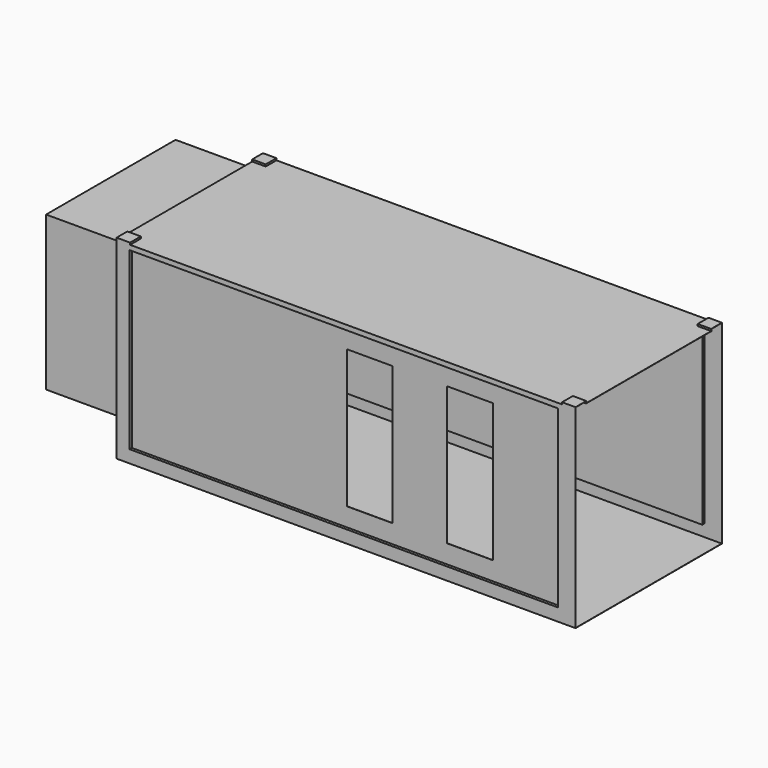
from build123d import *

# Parameters (mm, degrees)
F0_W      = 6051.55
F0_H      = 2540
F1_DEPTH  = 2413
F2_W      = 5651.5
F2_H      = 2311.4
F3_DEPTH  = 38.1
F4_W      = 5651.5
F4_H      = 2311.4
F5_DEPTH  = 38.1
F6_W      = 609.6
F6_H      = 1828.8
F7_DEPTH  = 25.4
F8_W      = 2133.6
F8_H      = 2032
F9_DEPTH  = 1041.4
F10_W     = 177.8
F10_H     = 177.8
F11_DEPTH = 25.4
F13_T     = -2.54
F14_DEPTH = 25.4
F15_DEPTH = 25.4


with BuildPart() as f1:
    # F0 (on Front) → F1 (new body)
    with BuildSketch(Plane.XZ):
        with Locations((2854.325, 1104.9)):
            Rectangle(F0_W, F0_H)
        with Locations((2854.325, 1104.9)):
            Rectangle(F0_W, F0_H)
    extrude(amount=F1_DEPTH)

    # F2 (on face) → F3 (cut)
    with BuildSketch(Plane.XZ.offset(2413)):
        with Locations((2825.75, 1155.7)):
            Rectangle(F2_W, F2_H)
    extrude(amount=-F3_DEPTH, mode=Mode.SUBTRACT)

    # F4 (on face) → F5 (cut)
    with BuildSketch(Plane.XZ):
        with Locations((2825.75, 1155.7)):
            Rectangle(F4_W, F4_H)
    extrude(amount=F5_DEPTH, mode=Mode.SUBTRACT)

    # F6 (on face) → F7 (join)
    with BuildSketch(Plane.XZ.offset(2374.9)):
        with Locations((3136.9, 1155.7)):
            Rectangle(F6_W, F6_H)
        with Locations((4457.7, 1155.7)):
            Rectangle(F6_W, F6_H)
    extrude(amount=F7_DEPTH)

    # F8 (on face) → F9 (join)
    with BuildSketch(Plane(origin=(-171.45, 0, 0), x_dir=(0, -1, 0), z_dir=(-1, 0, 0))):
        with Locations((1206.5, 1257.3)):
            Rectangle(F8_W, F8_H)
    extrude(amount=F9_DEPTH)

    # F10 (on face) → F11 (join)
    with BuildSketch(Plane.XY.offset(2374.9)):
        with Locations((-82.55, -2324.1)):
            Rectangle(F10_W, F10_H)
        with Locations((-82.55, -88.9)):
            Rectangle(F10_W, F10_H)
        with Locations((5791.2, -88.9)):
            Rectangle(F10_W, F10_H)
        with Locations((5791.2, -2324.1)):
            Rectangle(F10_W, F10_H)
    extrude(amount=F11_DEPTH)

    # F13
    f13_openings = [f1.faces().sort_by_distance(p)[0] for p in [
        (5880.1, -1206.5, 1106.787513),
    ]]
    offset(amount=F13_T, openings=f13_openings, kind=Kind.INTERSECTION)

    # F14 (cut): a face of the model
    f14_faces = [f1.faces().sort_by_distance(p)[0] for p in [
        (3136.9, -2400.3, 1155.7),
    ]]
    extrude(f14_faces, amount=-F14_DEPTH, mode=Mode.SUBTRACT)

    # F15 (cut): a face of the model
    f15_faces = [f1.faces().sort_by_distance(p)[0] for p in [
        (4457.7, -2400.3, 1155.7),
    ]]
    extrude(f15_faces, amount=-F15_DEPTH, mode=Mode.SUBTRACT)


solid = f1.part
